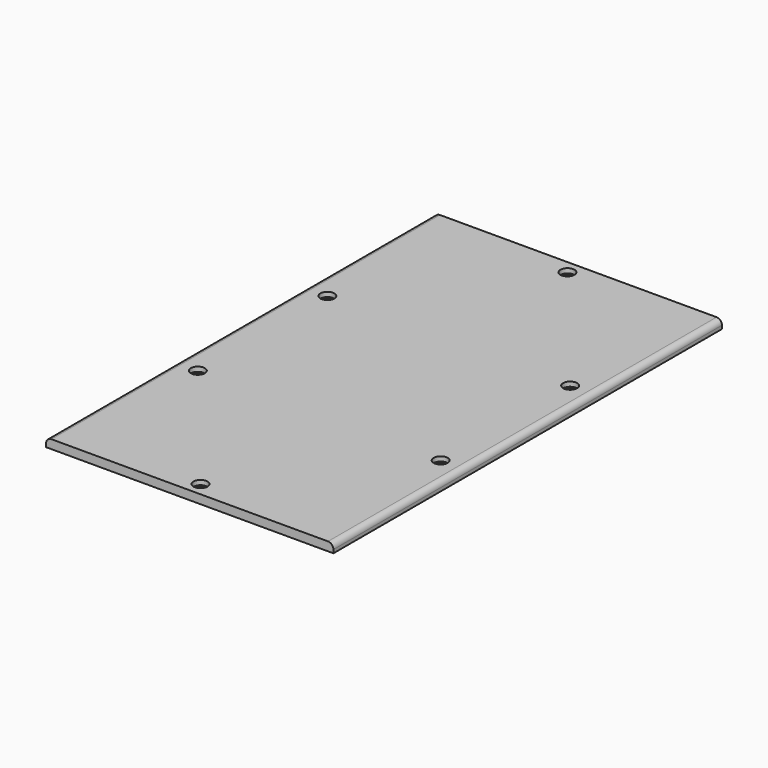
from build123d import *

# Parameters (mm, degrees)
SKETCH_W        = 213
SKETCH_H        = 360
PAD_DEPTH       = 6.5
SKETCH001_R     = 5.2
POCKET_DEPTH    = 3.4
SKETCH002_R     = 3.2
POCKET001_DEPTH = 3.1
FILLET_R        = 4


with BuildPart() as part:
    # Sketch → Pad (new body)
    with BuildSketch(Plane.XY):
        with Locations((106.5, 180)):
            Rectangle(SKETCH_W, SKETCH_H)
    extrude(amount=PAD_DEPTH)

    # Sketch001 (on Face6 of Pad) → Pocket (cut)
    with BuildSketch(Plane.XY.offset(6.5)):
        with Locations((106.5, 350)):
            Circle(SKETCH001_R)
        with Locations((16.5, 240)):
            Circle(SKETCH001_R)
        with Locations((16.5, 120)):
            Circle(SKETCH001_R)
        with Locations((196.5, 240)):
            Circle(SKETCH001_R)
        with Locations((196.5, 120)):
            Circle(SKETCH001_R)
        with Locations((106.5, 10)):
            Circle(SKETCH001_R)
    extrude(amount=-POCKET_DEPTH, mode=Mode.SUBTRACT)

    # Sketch002 (on Face17 of Pocket) → Pocket001 (cut)
    with BuildSketch(Plane.XY.offset(3.1)):
        with Locations((106.5, 350)):
            Circle(SKETCH002_R)
        with Locations((16.5, 240)):
            Circle(SKETCH002_R)
        with Locations((16.5, 120)):
            Circle(SKETCH002_R)
        with Locations((196.5, 240)):
            Circle(SKETCH002_R)
        with Locations((196.5, 120)):
            Circle(SKETCH002_R)
        with Locations((106.5, 10)):
            Circle(SKETCH002_R)
    extrude(amount=-POCKET001_DEPTH, mode=Mode.SUBTRACT)

    # Fillet
    fillet_edges = [part.edges().sort_by_distance(p)[0] for p in [
        (213, 180, 6.5),
        (0, 180, 6.5),
    ]]
    fillet(fillet_edges, radius=FILLET_R)


solid = part.part
